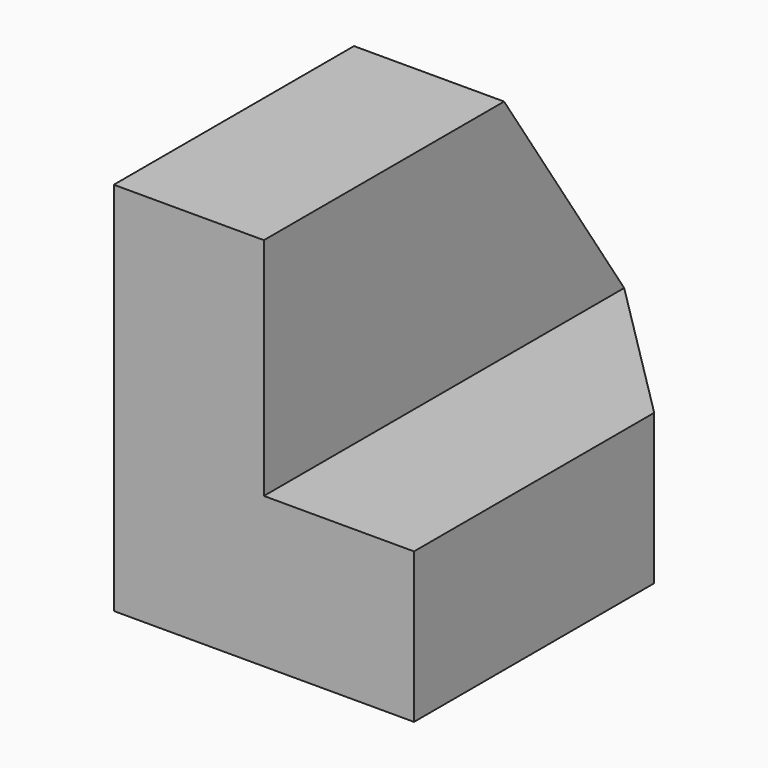
from build123d import *

# Parameters (mm, degrees)
F0_W     = 25.4
F0_H     = 31.75
F1_DEPTH = 38.1
F2_W     = 12.7
F2_H     = 19.05
F3_DEPTH = 38.1
F5_DEPTH = 25.4
F7_DEPTH = 25.4


with BuildPart() as f1:
    # F0 (on Front) → F1 (new body)
    with BuildSketch(Plane.XZ):
        with Locations((12.7, 15.875)):
            Rectangle(F0_W, F0_H)
    extrude(amount=F1_DEPTH)

    # F2 (on face) → F3 (cut)
    with BuildSketch(Plane(origin=(0, 0, 0), x_dir=(-1, 0, 0), z_dir=(0, 1, 0))):
        with Locations((-19.05, 22.225)):
            Rectangle(F2_W, F2_H)
    extrude(amount=-F3_DEPTH, mode=Mode.SUBTRACT)

    # F4 (on face) → F5 (cut)
    with BuildSketch(Plane.YZ.offset(12.7)):
        Polygon((0, 12.7), (0, 31.75), (-12.7, 31.75), align=None)
    extrude(amount=-F5_DEPTH, mode=Mode.SUBTRACT)

    # F6 (on face) → F7 (cut)
    with BuildSketch(Plane.XY.offset(12.7)):
        Polygon((12.7, 0), (25.4, -12.7), (25.4, 0), align=None)
    extrude(amount=-F7_DEPTH, mode=Mode.SUBTRACT)


solid = f1.part
